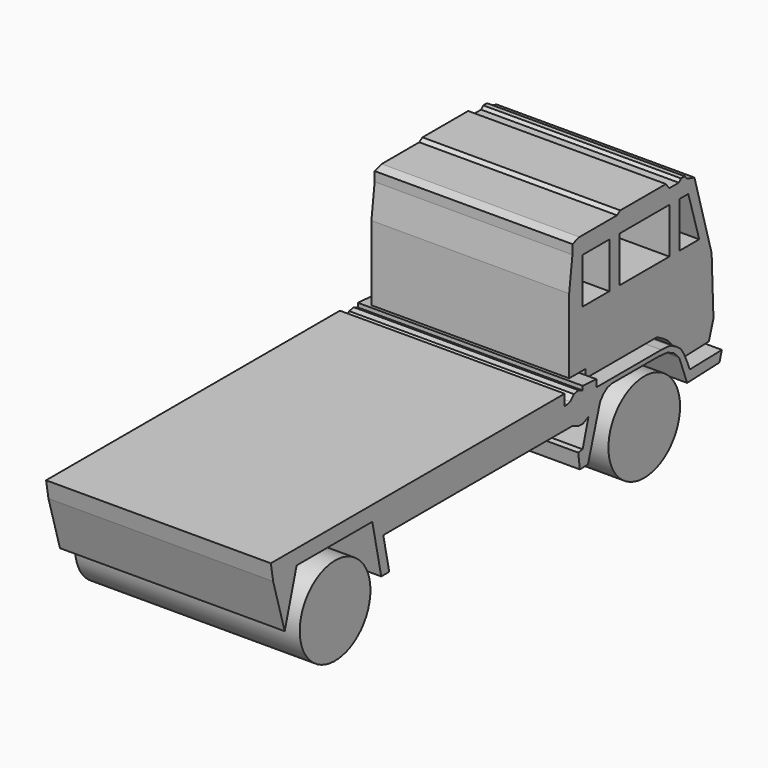
from build123d import *

# Parameters (mm, degrees)
F3_DEPTH = 2500
F4_DEPTH = 2500
F1_R     = 491.6377645467
F5_DEPTH = 2500
F1_R_2   = 498.02299798
F6_W     = 372.7331161499
F6_H     = 507.2819590569
F6_W_2   = 690.471470356
F7_DEPTH = 2500
F8_DEPTH = 150
F9_DEPTH = 150


with BuildPart() as f3:
    # F0 (on Right) → F3 (new body)
    with BuildSketch(Plane.YZ):
        Polygon((-1224.5485678222, 0), (-5310.6136322021, 0), (-5277.7557373047, -191.9602900744), (-5117.4148913408, -743.8182594957), (-4951.7569541931, -166.6848343797), (-3899.2894684027, -166.6848343797), (-3775.2246856689, -753.0728117307), (-3663.7607209599, -753.0728117307), (-3746.8817234039, -360.2042198181), (-1113.1182909012, -360.2042198181), (-1040.8757674439, -393.2328965524), (-974.8640060425, -398.839533329), (-892.8970694542, -360.2042198181), (-974.8640060425, -645.7677109129), (-1035.8477830887, -653.8325548172), (-1012.7979517511, -828.128026859), (-900.6241559982, -823.8279223442), (-731.6343188286, -278.8651585579), (-686.946451664, -222.2605645657), (-630.3418874741, -180.5519014597), (-564.7996664047, -166.6848343797), (75.6386753714, -166.6848343797), (203.8312107325, -177.5727272034), (293.2069003582, -219.2813754082), (369.2835271358, -296.7402935028), (478.3685519201, -587.1312394465), (927.0023107529, -569.9331760406), (962.0749950409, -459.7048163414), (515.7201886177, -470.1234698296), (478.3523380756, -380.440890789), (433.5111379623, -283.2847237587), (388.6697292328, -216.0227298737), (321.4078247547, -166.6848343797), (239.2881385455, -125.041227132), (119.6218878031, -116.8081387877), (-782.8375101089, -116.8081387877), (-782.8375101089, -37.5391505659), (-974.8640060425, -24.3276469409), (-974.8640060425, -69.7538033128), (-1031.7270755768, -44.9297651649), (-1096.050620079, -56.4161129296), (-1148.8877534866, -109.2533096671), (-1181.0495853424, -120.7396537066), (-1224.5485678222, -122.4071569741), align=None)
    extrude(amount=F3_DEPTH)


with BuildPart() as f4:
    # F2 (on face) → F4 (new body)
    with BuildSketch(Plane.YZ):
        Polygon((-974.5712280273, 829.3906450272), (-974.5712280273, 0), (-750.6937384605, 0), (-750.6937384605, -93.3078676462), (119.3610876799, -93.3078676462), (246.1467087269, -93.3078676462), (335.2393209934, -144.70744133), (403.7721157074, -192.680388689), (462.0249569416, -261.2131536007), (506.5712332726, -364.0123307705), (533.9843630791, -442.8250193596), (968.382358551, -428.9629757404), (1031.7741632462, -227.2615879774), (1006.368637085, 421.4380383492), (767.2148942947, 1258.4758996964), (662.5851988792, 1288.370013237), (632.6910257339, 1325.7378339767), (580.3761482239, 1325.7378339767), (550.4819154739, 1295.8436012268), (415.9579873085, 1295.8436012268), (371.1166679859, 1355.6319475174), (-264.1352415085, 1355.6319475174), (-308.9765608311, 1325.7378339767), (-832.1251273155, 1325.7378339767), (-929.2812943459, 1295.8436012268), (-929.2812943459, 1191.213965416), align=None)
    extrude(amount=F4_DEPTH)

    # F6 (on face) → F7 (cut, through all)
    with BuildSketch(Plane.YZ.offset(2500)):
        with Locations((-603.1215190887, 879.3097436428)):
            Rectangle(F6_W, F6_H)
        with Locations((73.6051499844, 879.3097436428)):
            Rectangle(F6_W_2, F6_H)
        Polygon((681.7742115496, 1132.9507231712), (558.6945289137, 1132.9507231712), (558.6945289137, 625.6687641144), (834.063184881, 625.6687641144), align=None)
    extrude(amount=-F7_DEPTH, mode=Mode.SUBTRACT)

    # F8 (cut): a face of the model
    f8_faces = [f4.faces().sort_by_distance(p)[0] for p in [
        (2500, 59.5307734223, 448.7734529522),
    ]]
    extrude(f8_faces, amount=-F8_DEPTH, mode=Mode.SUBTRACT)

    # F9 (cut): a face of the model
    f9_faces = [f4.faces().sort_by_distance(p)[0] for p in [
        (0, 59.5307734223, 448.7734529522),
    ]]
    extrude(f9_faces, amount=-F9_DEPTH, mode=Mode.SUBTRACT)


with BuildPart() as f5:
    # F1 (on face) → F5 (new body)
    with BuildSketch(Plane.YZ):
        with Locations((-4416.9149398804, -827.0588517189)):
            Circle(F1_R)
    extrude(amount=F5_DEPTH)


with BuildPart() as f5b:
    # F1 (on face) → F5, piece 2 (new body)
    with BuildSketch(Plane.YZ):
        with Locations((-118.3288097382, -776.782989502)):
            Circle(F1_R_2)
    extrude(amount=F5_DEPTH)


solid = Compound([f3.part, f4.part, f5.part, f5b.part])
